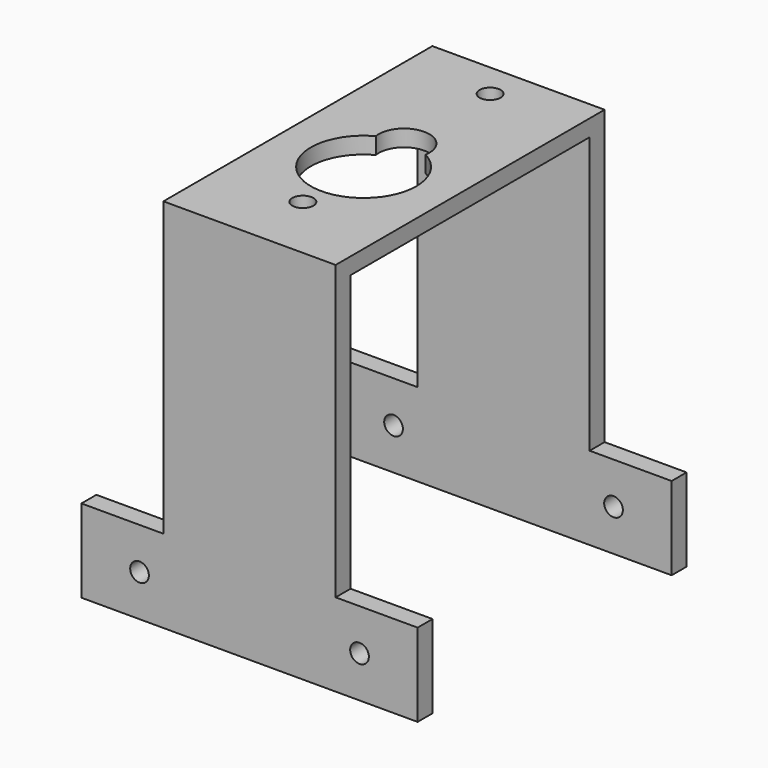
from build123d import *

# Parameters (mm, degrees)
F0_W      = 20.75
F0_H      = 40.5
F2_DEPTH  = 2
F3_START  = 18
F1_W      = 20.75
F1_H      = 33.25
F3_DEPTH  = 2.25
F4_START  = -18
F4_DEPTH  = 2.25
F6_DEPTH  = 2.25
F8_DEPTH  = 2.25
F9_R      = 1.125
F10_DEPTH = 40.501
F11_R     = 1.27
F12_DEPTH = 2


with BuildPart() as f2:
    # F0 (on Top) → F2 (new body)
    with BuildSketch(Plane.XY):
        Rectangle(F0_W, F0_H)
    extrude(amount=F2_DEPTH)

    # F1 (on Front) → F3 (join)
    with BuildSketch(Plane.XZ.offset(F3_START)):
        with Locations((0, -16.625)):
            Rectangle(F1_W, F1_H)
    extrude(amount=F3_DEPTH)

    # F1 (on Front) → F4 (join)
    with BuildSketch(Plane.XZ.offset(F4_START)):
        with Locations((0, -16.625)):
            Rectangle(F1_W, F1_H)
    extrude(amount=-F4_DEPTH)

    # F5 (on face) → F6 (join, through all)
    with BuildSketch(Plane(origin=(0, 20.25, 0), x_dir=(-1, 0, 0), z_dir=(0, 1, 0))):
        Polygon((-10.375, -33.25), (-20.25, -33.25), (-20.25, -43.25), (20.25, -43.25), (20.25, -33.25), (10.375, -33.25), align=None)
    extrude(amount=-F6_DEPTH)

    # F7 (on face) → F8 (join, through all)
    with BuildSketch(Plane.XZ.offset(20.25)):
        Polygon((0, -33.25), (-20.25, -33.25), (-20.25, -43.25), (20.25, -43.25), (20.25, -33.25), align=None)
    extrude(amount=-F8_DEPTH)

    # F9 (on face) → F10 (cut, through all)
    with BuildSketch(Plane.XZ.offset(20.25)):
        with Locations((-13.25, -38.25)):
            Circle(F9_R)
        with Locations((13.25, -38.25)):
            Circle(F9_R)
    extrude(amount=-F10_DEPTH, mode=Mode.SUBTRACT)

    # F11 (on face) → F12 (cut, through all)
    with BuildSketch(Plane.XY.offset(2)):
        with BuildLine():
            ThreePointArc((-3.0697393815, 2.5959719896), (-3.3217599094, -8.4476517557), (6.286518813, -2.9973196771))
            ThreePointArc((6.286518813, -2.9973196771), (5.3868508916, 0.2609590453), (2.9427770074, 2.5959719896))
            ThreePointArc((2.9427770074, 2.5959719896), (-0.063481187, 0.0506803229), (-3.0697393815, 2.5959719896))
        make_face()
        with BuildLine():
            ThreePointArc((-3.0697393815, 2.5959719896), (-0.063481187, 3.3526803229), (2.9427770074, 2.5959719896))
            ThreePointArc((2.9427770074, 2.5959719896), (2.9740654362, 2.846461149), (2.984518813, 3.0986803229))
            ThreePointArc((2.984518813, 3.0986803229), (-0.315700361, 6.1362269461), (-3.0697393815, 2.5959719896))
        make_face()
        with BuildLine():
            ThreePointArc((-3.0697393815, 2.5959719896), (-0.063481187, 0.0506803229), (2.9427770074, 2.5959719896))
            ThreePointArc((2.9427770074, 2.5959719896), (-0.063481187, 3.3526803229), (-3.0697393815, 2.5959719896))
        make_face()
        with Locations((-0.063481187, -12.1413196771)):
            Circle(F11_R)
        with Locations((-0.063481187, 16.0526803229)):
            Circle(F11_R)
    extrude(amount=-F12_DEPTH, mode=Mode.SUBTRACT)


solid = f2.part
